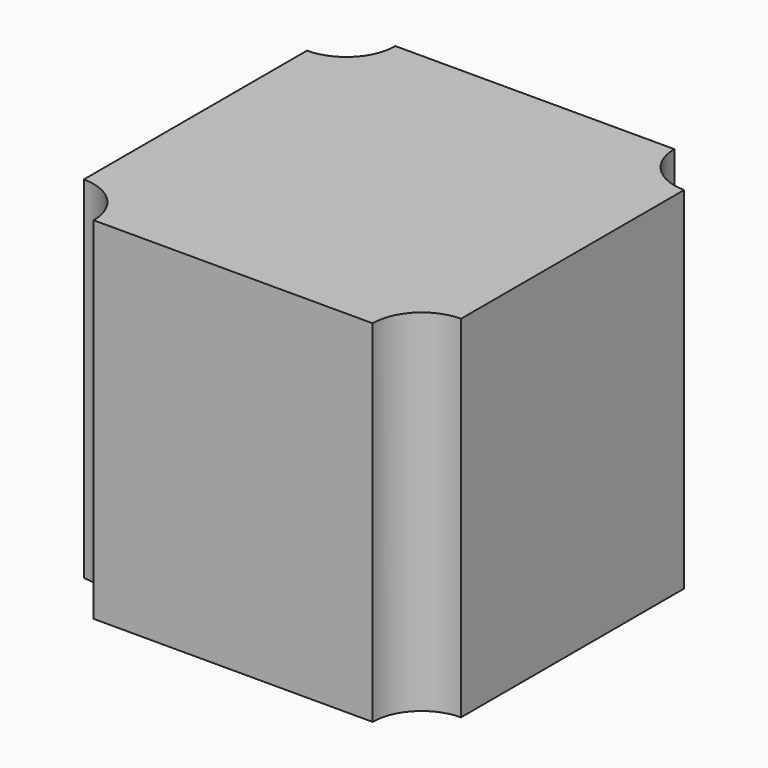
from build123d import *

# Parameters (mm, degrees)
F1_DEPTH = 25


with BuildPart() as f1:
    # F0 (on Top) → F1 (new body)
    with BuildSketch(Plane.XY):
        with BuildLine():
            Line((9.9350288425, 13.4350288425), (-9.9350288425, 13.4350288425))
            ThreePointArc((-9.9350288425, 13.4350288425), (-10.9601551084, 10.9601551084), (-13.4350288425, 9.9350288425))
            Line((-13.4350288425, 9.9350288425), (-13.4350288425, -9.9350288425))
            ThreePointArc((-13.4350288425, -9.9350288425), (-10.9601551084, -10.9601551084), (-9.9350288425, -13.4350288425))
            Line((-9.9350288425, -13.4350288425), (9.9350288425, -13.4350288425))
            ThreePointArc((9.9350288425, -13.4350288425), (10.9601551084, -10.9601551084), (13.4350288425, -9.9350288425))
            Line((13.4350288425, -9.9350288425), (13.4350288425, 9.9350288425))
            ThreePointArc((13.4350288425, 9.9350288425), (10.9601551084, 10.9601551084), (9.9350288425, 13.4350288425))
        make_face()
    extrude(amount=F1_DEPTH)


with BuildPart() as f2_1:
    # F2: copy of F1
    add(f1.part)


with BuildPart() as f3_1:
    # F3: copy of F1
    add(f1.part)


solid = Compound([f1.part, f2_1.part, f3_1.part])
